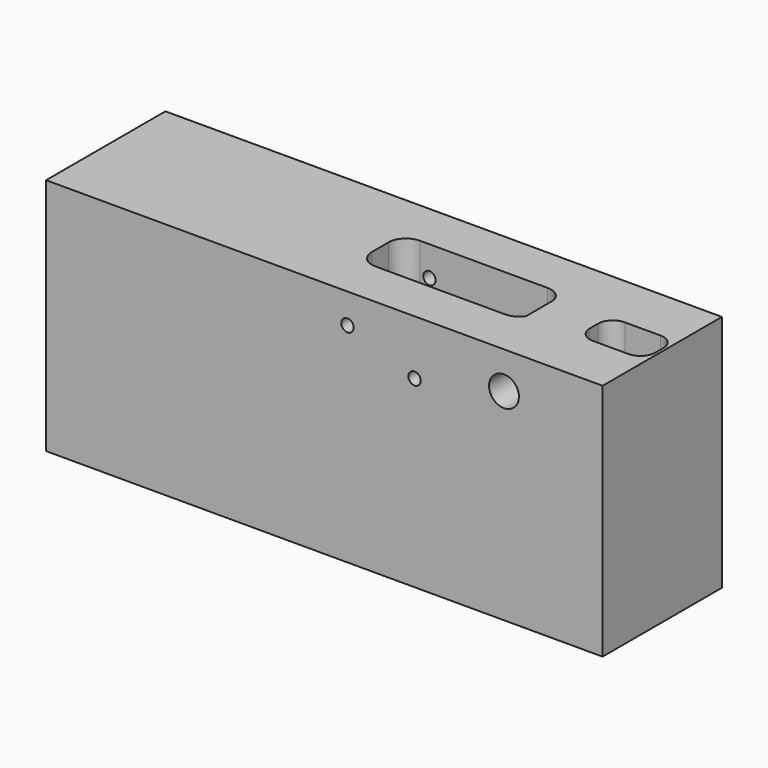
from build123d import *

# Parameters (mm, degrees)
F0_W     = 177.8
F0_H     = 47.6504
F1_DEPTH = 76.2
F2_R     = 4.7752
F2_R_2   = 1.9812
F3_DEPTH = 47.6514
F5_DEPTH = 16.002
F7_DEPTH = 33.528
F9_DEPTH = 31.7246


with BuildPart() as f1:
    # F0 (on Top) → F1 (new body)
    with BuildSketch(Plane.XY):
        with Locations((84.1375, 23.8252)):
            Rectangle(F0_W, F0_H)
    extrude(amount=-F1_DEPTH)

    # F2 (on Front) → F3 (cut, through all)
    with BuildSketch(Plane.XZ):
        with Locations((141.5288, -11.7856)):
            Circle(F2_R)
        with Locations((112.9538, -17.5006)):
            Circle(F2_R_2)
        with Locations((91.5416, -9.525)):
            Circle(F2_R_2)
    extrude(amount=-F3_DEPTH, mode=Mode.SUBTRACT)

    # F4 (on face) → F5 (cut)
    with BuildSketch(Plane.XY):
        with BuildLine():
            Line((172.1358, 22.1869), (172.1358, 25.4635))
            ThreePointArc((172.1358, 25.4635), (170.740896, 28.831096), (167.3733, 30.226))
            Line((167.3733, 30.226), (155.9433, 30.226))
            ThreePointArc((155.9433, 30.226), (152.575704, 28.831096), (151.1808, 25.4635))
            Line((151.1808, 25.4635), (151.1808, 22.1869))
            ThreePointArc((151.1808, 22.1869), (152.575704, 18.819304), (155.9433, 17.4244))
            Line((155.9433, 17.4244), (157.523438, 17.4244))
            Line((157.523438, 17.4244), (167.3733, 17.4244))
            ThreePointArc((167.3733, 17.4244), (170.740896, 18.819304), (172.1358, 22.1869))
        make_face()
    extrude(amount=-F5_DEPTH, mode=Mode.SUBTRACT)

    # F6 (on face) → F7 (cut)
    with BuildSketch(Plane.XY):
        with BuildLine():
            Line((113.0554, 27.781295), (103.7082, 27.781295))
            ThreePointArc((103.7082, 27.781295), (100.90636, 26.620735), (99.7458, 23.818895))
            ThreePointArc((99.7458, 23.818895), (100.90636, 21.017055), (103.7082, 19.856495))
            Line((103.7082, 19.856495), (113.0554, 19.856495))
            ThreePointArc((113.0554, 19.856495), (115.85724, 21.017055), (117.0178, 23.818895))
            ThreePointArc((117.0178, 23.818895), (115.85724, 26.620735), (113.0554, 27.781295))
        make_face()
    extrude(amount=-F7_DEPTH, mode=Mode.SUBTRACT)

    # F8 (on Top) → F9 (cut)
    with BuildSketch(Plane.XY):
        with BuildLine():
            Line((129.259735, 32.7152), (88.4682, 32.7152))
            ThreePointArc((88.4682, 32.7152), (84.552808, 31.093392), (82.931, 27.178))
            Line((82.931, 27.178), (82.931, 20.4724))
            ThreePointArc((82.931, 20.4724), (84.552808, 16.557008), (88.4682, 14.9352))
            Line((88.4682, 14.9352), (129.999633, 14.9352))
            ThreePointArc((129.999633, 14.9352), (132.65147, 15.611501), (134.655529, 17.4752))
            Line((134.655529, 17.4752), (134.611124, 28.6004))
            ThreePointArc((134.611124, 28.6004), (132.634974, 31.567573), (129.259735, 32.7152))
        make_face()
    extrude(amount=-F9_DEPTH, mode=Mode.SUBTRACT)


solid = f1.part
